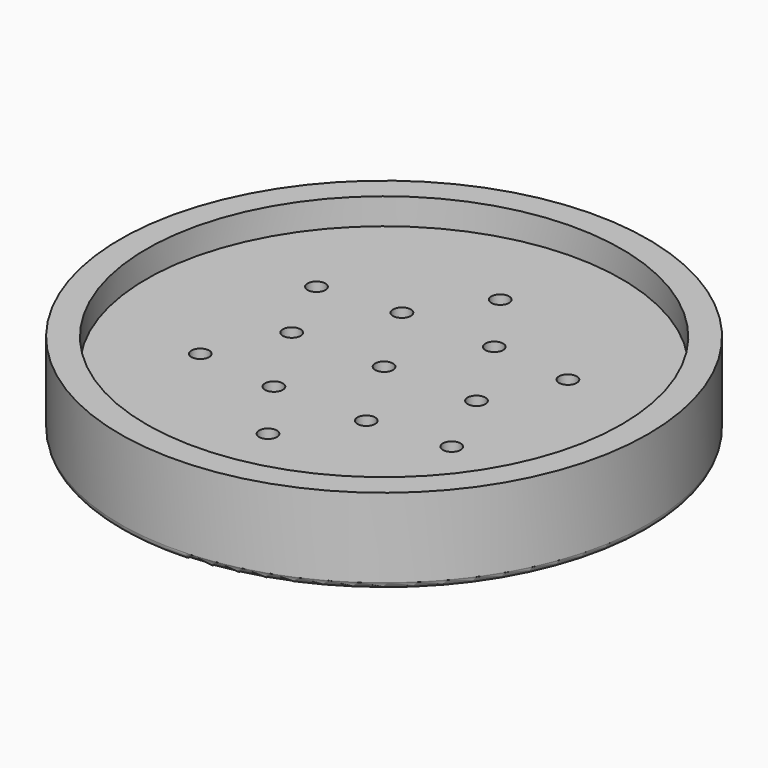
from build123d import *

# Parameters (mm, degrees)
F1_R     = 20
F1_R_2   = 0.675
F2_DEPTH = 4.5
F3_R     = 20
F3_R_2   = 18
F4_DEPTH = 2
F5_R     = 16.25
F5_R_2   = 13.75
F5_R_3   = 5
F5_R_4   = 2.5
F6_DEPTH = 0.3
F7_R     = 0.5


with BuildPart() as f2:
    # F1 (on face) → F2 (new body)
    with BuildSketch(Plane.XY):
        Circle(F1_R)
        with Locations((-9.5262794416, -5.5)):
            Circle(F1_R_2, mode=Mode.SUBTRACT)
        with Locations((-3.5, -6.0621778265)):
            Circle(F1_R_2, mode=Mode.SUBTRACT)
        with Locations((0, -11)):
            Circle(F1_R_2, mode=Mode.SUBTRACT)
        with Locations((3.5, -6.0621778265)):
            Circle(F1_R_2, mode=Mode.SUBTRACT)
        with Locations((9.5262794416, -5.5)):
            Circle(F1_R_2, mode=Mode.SUBTRACT)
        with Locations((-7, 0)):
            Circle(F1_R_2, mode=Mode.SUBTRACT)
        with Locations((-9.5262794416, 5.5)):
            Circle(F1_R_2, mode=Mode.SUBTRACT)
        with Locations((-3.5, 6.0621778265)):
            Circle(F1_R_2, mode=Mode.SUBTRACT)
        Circle(F1_R_2, mode=Mode.SUBTRACT)
        with Locations((7, 0)):
            Circle(F1_R_2, mode=Mode.SUBTRACT)
        with Locations((3.5, 6.0621778265)):
            Circle(F1_R_2, mode=Mode.SUBTRACT)
        with Locations((9.5262794416, 5.5)):
            Circle(F1_R_2, mode=Mode.SUBTRACT)
        with Locations((0, 11)):
            Circle(F1_R_2, mode=Mode.SUBTRACT)
    extrude(amount=F2_DEPTH)

    # F3 (on face) → F4 (join)
    with BuildSketch(Plane.XY.offset(4.5)):
        Circle(F3_R)
        Circle(F3_R_2, mode=Mode.SUBTRACT)
    extrude(amount=F4_DEPTH)

    # F5 (on face) → F6 (cut)
    with BuildSketch(Plane.XY):
        Circle(F5_R)
        Circle(F5_R_2, mode=Mode.SUBTRACT)
        Circle(F5_R_3)
        Circle(F5_R_4, mode=Mode.SUBTRACT)
    extrude(amount=F6_DEPTH, mode=Mode.SUBTRACT)

    # F7
    f7_edges = [f2.edges().sort_by_distance(p)[0] for p in [
        (-20, 0, 0),
    ]]
    fillet(f7_edges, radius=F7_R)


solid = f2.part
